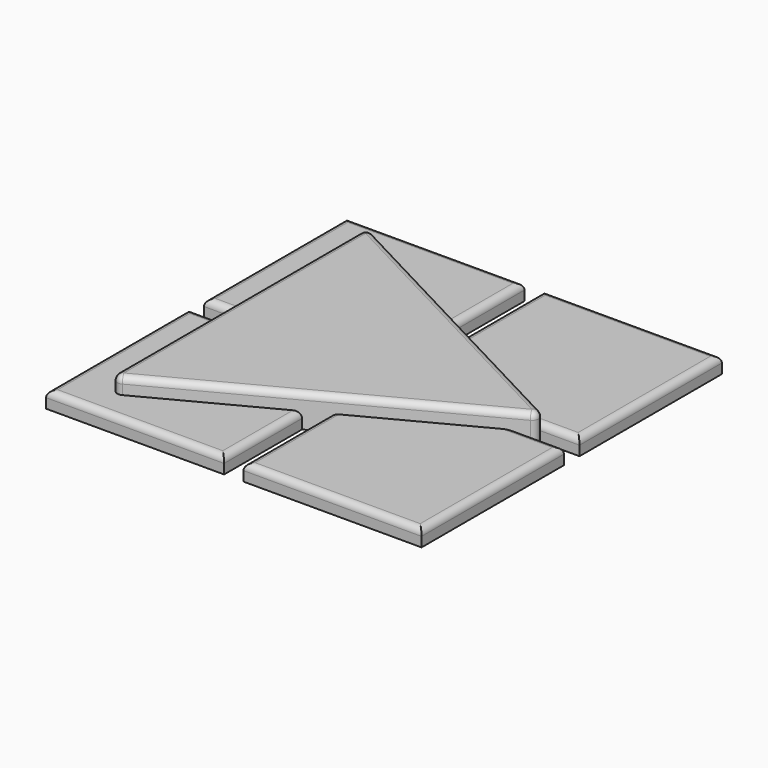
from build123d import *

# Parameters (mm, degrees)
PAD001_DEPTH = 1
PAD002_DEPTH = 0.5
FILLET003_R  = 0.2


with BuildPart() as obj1:
    # Sketch008 → Pad001 (new body)
    with BuildSketch(Plane.XY):
        Polygon((-4.5, 5), (5, 0), (-4.5, -5), align=None)
    extrude(amount=PAD001_DEPTH)


with BuildPart() as obj1_1:
    # Body003 placement: moved
    add(obj1.part.moved(Location((0, 0, 2))))


with BuildPart() as obj2:
    # Sketch009 → Pad002 (new body)
    with BuildSketch(Plane.XY.offset(2)):
        Polygon((-5.8, 5.8), (-0.3, 5.8), (-0.3, 0.8), (0.3, 0.8), (0.3, 5.8), (5.8, 5.8), (5.8, 0.3), (0.8, 0.3), (0.8, -0.3), (5.8, -0.3), (5.8, -5.8), (0.3, -5.8), (0.3, -0.8), (-0.3, -0.8), (-0.3, -5.8), (-5.8, -5.8), (-5.8, -0.3), (-0.8, -0.3), (-0.8, 0.3), (-5.8, 0.3), align=None)
    extrude(amount=PAD002_DEPTH)

    # Fusion: union obj1
    add(obj1_1.part)

    # Fillet003
    fillet003_edges = [obj2.edges().sort_by_distance(p)[0] for p in [
        (-3.05, 5.8, 2.5),
        (-5.8, 3.05, 2.5),
        (-0.3, 4.294737, 2.5),
        (-5.15, 0.3, 2.5),
        (5, 0, 2.5),
        (0.25, 2.5, 3),
        (-4.5, 5, 2.75),
        (-4.5, 0, 3),
        (-4.5, -5, 2.75),
        (0.3, 4.136842, 2.5),
        (5.115, 0.3, 2.5),
        (5.8, 3.05, 2.5),
        (3.05, 5.8, 2.5),
        (0.25, -2.5, 3),
        (-5.15, -0.3, 2.5),
        (-5.8, -3.05, 2.5),
        (-3.05, -5.8, 2.5),
        (-0.3, -4.294737, 2.5),
        (5.115, -0.3, 2.5),
        (0.3, -4.136842, 2.5),
        (3.05, -5.8, 2.5),
        (5.8, -3.05, 2.5),
    ]]
    fillet(fillet003_edges, radius=FILLET003_R)


solid = obj2.part
